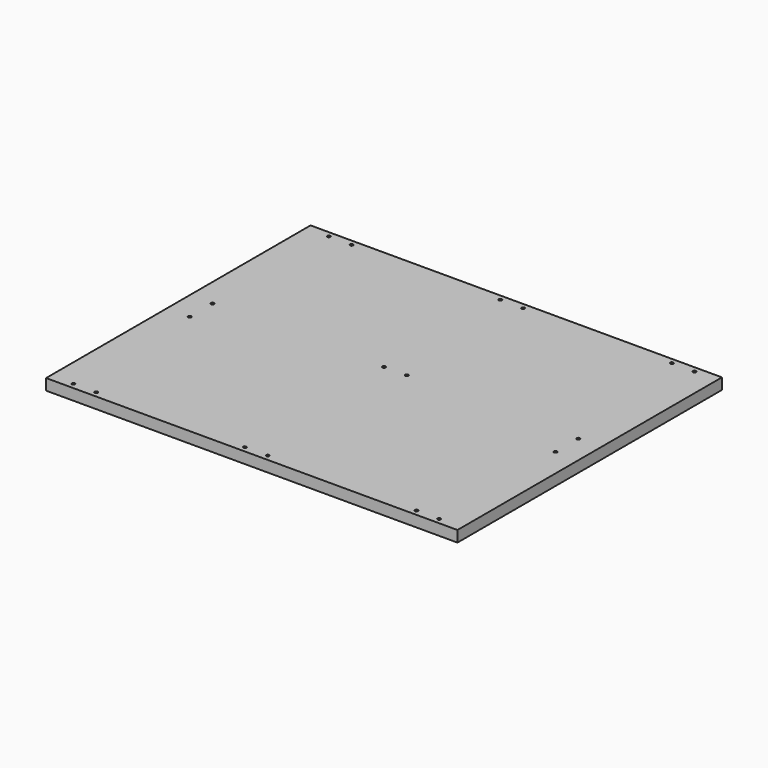
from build123d import *

# Parameters (mm, degrees)
F0_W           = 721.73
F0_H           = 580
F1_DEPTH       = 19.5
F2_D           = 5.5
F2_CBORE_D     = 9.75
F2_CBORE_DEPTH = 6


with BuildPart() as f1:
    # F0 (on Top) → F1 (new body)
    with BuildSketch(Plane.XY):
        Rectangle(F0_W, F0_H)
    extrude(amount=F1_DEPTH)

    # F2 (through all)
    with Locations(Plane(origin=(0, 0, 0), x_dir=(1, 0, 0), z_dir=(0, 0, -1))):
        with Locations((-320.865, -280), (-19.995, -280), (20.005, -280), (320.865, -280), (320.865, -25), (320.865, 25), (320.865, 280), (20.005, 280), (-19.995, 280), (-320.865, 280), (-320.865, 25), (-320.865, -25), (-19.995, -25), (20.005, -25), (-280.865, 280), (-280.865, -280), (280.865, -280), (280.865, 280)):
            CounterBoreHole(F2_D / 2, F2_CBORE_D / 2, F2_CBORE_DEPTH)


solid = f1.part
